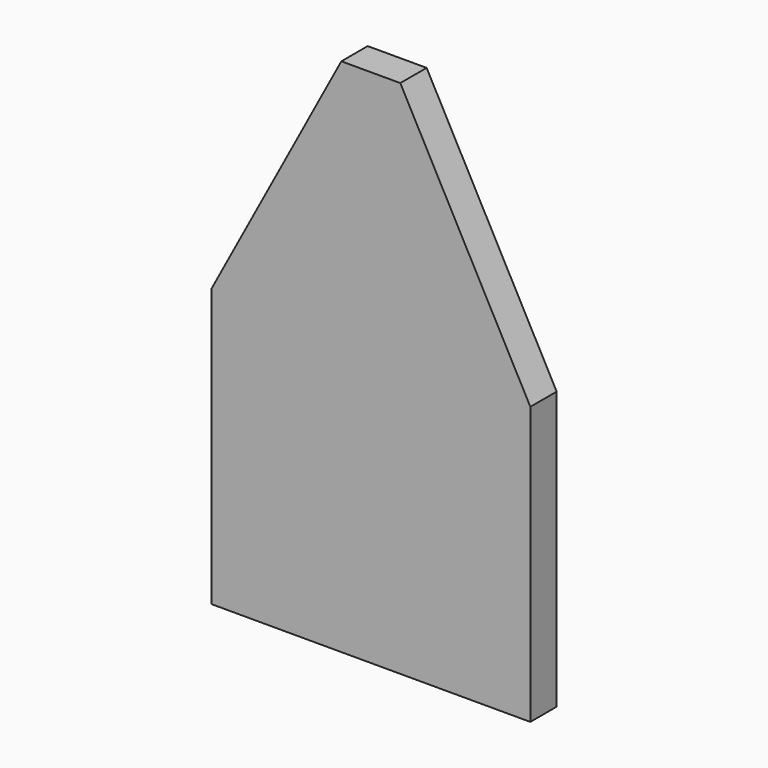
from build123d import *

# Parameters (mm, degrees)
F0_W     = 184
F0_H     = 300
F1_DEPTH = 19
F2_SIZE2 = 140
F2_SIZE  = 75


with BuildPart() as f1:
    # F0 (on Front) → F1 (new body)
    with BuildSketch(Plane.XZ):
        Rectangle(F0_W, F0_H)
    extrude(amount=F1_DEPTH)

    # F2
    f2_edges = [f1.edges().sort_by_distance(p)[0] for p in [
        (92, -9.5, 150),
        (-92, -9.5, 150),
    ]]
    f2_side = f1.faces().sort_by_distance((0, -9.5, 150))[0]
    chamfer(f2_edges, length=F2_SIZE, length2=F2_SIZE2, reference=f2_side)


solid = f1.part
